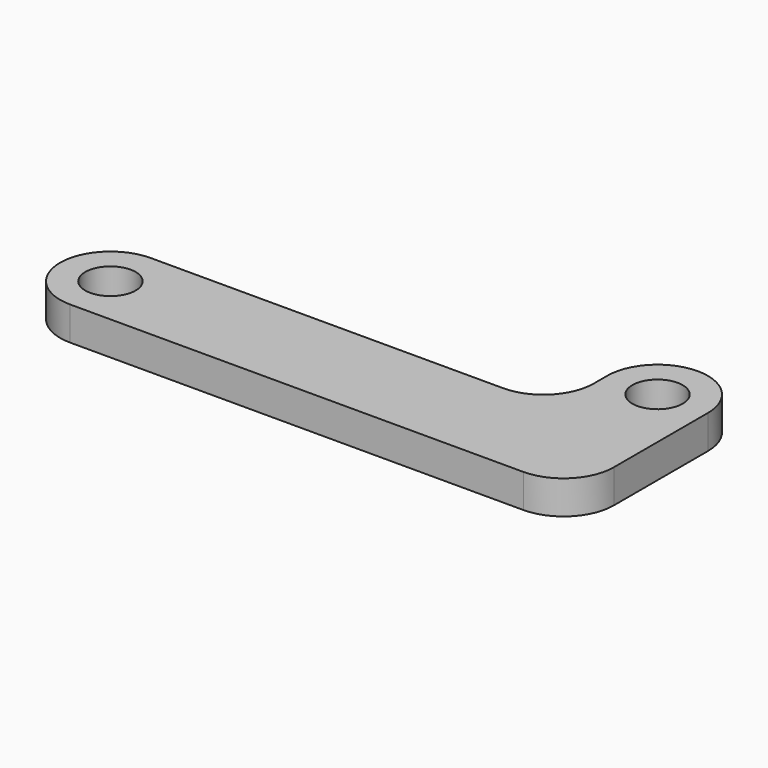
from build123d import *

# Parameters (mm, degrees)
F0_R     = 1.5
F1_DEPTH = 2


with BuildPart() as f1:
    # F0 (on Top) → F1 (new body)
    with BuildSketch(Plane.XY):
        with BuildLine():
            ThreePointArc((-3, 0), (-0.87868, 0.87868), (0, 3))
            Line((0, 3), (0, 6))
            Line((0, 6), (0, 10))
            ThreePointArc((0, 10), (-3, 13), (-6, 10))
            Line((-6, 10), (-6, 9))
            ThreePointArc((-6, 9), (-6.87868, 6.87868), (-9, 6))
            Line((-9, 6), (-30, 6))
            ThreePointArc((-30, 6), (-33, 3), (-30, 0))
            Line((-30, 0), (-3, 0))
        make_face()
        with Locations((-30, 3)):
            Circle(F0_R, mode=Mode.SUBTRACT)
        with Locations((-3, 10)):
            Circle(F0_R, mode=Mode.SUBTRACT)
    extrude(amount=F1_DEPTH)


solid = f1.part
